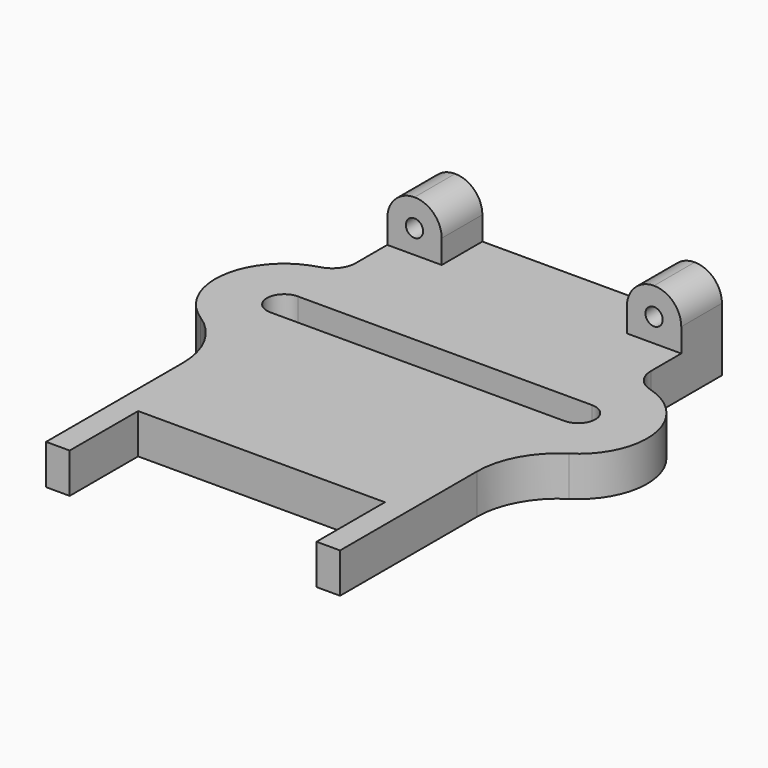
from build123d import *

# Parameters (mm, degrees)
F1_DEPTH  = 11.176
F2_W      = 15.24
F2_H      = 14.224
F3_DEPTH  = 14.224
F4_R      = 2.413
F5_DEPTH  = 14.225
F7_DEPTH  = 14.225
F9_DEPTH  = 14.225
F10_W     = 69.088
F10_H     = 23.9414346935
F11_DEPTH = 11.177


with BuildPart() as f1:
    # F0 (on Top) → F1 (new body)
    with BuildSketch(Plane.XY):
        with BuildLine():
            Line((36.576, -66.802), (41.148, -66.802))
            Line((41.148, -66.802), (41.148, -18.9191306131))
            ThreePointArc((41.148, -18.9191306131), (43.9343121331, -7.9817335086), (51.6140240964, 0.2894341771))
            ThreePointArc((51.6140240964, 0.2894341771), (60.2346282504, 19.3987779476), (46.3452307692, 35.1012132022))
            ThreePointArc((46.3452307692, 35.1012132022), (42.5943851715, 37.6516131673), (41.148, 41.9506075399))
            Line((41.148, 41.9506075399), (41.148, 66.802))
            Line((41.148, 66.802), (36.576, 66.802))
            Line((36.576, 66.802), (-36.576, 66.802))
            Line((-36.576, 66.802), (-41.148, 66.802))
            Line((-41.148, 66.802), (-41.148, 41.5621785081))
            ThreePointArc((-41.148, 41.5621785081), (-42.5208525009, 37.5313086462), (-46.068627451, 35.1763290844))
            ThreePointArc((-46.068627451, 35.1763290844), (-60.2126563181, 19.5403952666), (-51.6140240964, 0.2894341771))
            ThreePointArc((-51.6140240964, 0.2894341771), (-43.9343121331, -7.9817335086), (-41.148, -18.9191306131))
            Line((-41.148, -18.9191306131), (-41.148, -66.802))
            Line((-41.148, -66.802), (-36.576, -66.802))
            Line((-36.576, -66.802), (36.576, -66.802))
        make_face()
        with BuildLine():
            ThreePointArc((-41.148, 11.684), (-45.974, 16.51), (-41.148, 21.336))
            Line((-41.148, 21.336), (41.148, 21.336))
            ThreePointArc((41.148, 21.336), (45.974, 16.51), (41.148, 11.684))
            Line((41.148, 11.684), (-41.148, 11.684))
        make_face(mode=Mode.SUBTRACT)
    extrude(amount=F1_DEPTH)

    # F2 (on face) → F3 (join)
    with BuildSketch(Plane.XY.offset(11.176)):
        with Locations((-33.528, 59.69)):
            Rectangle(F2_W, F2_H)
        with Locations((33.528, 59.69)):
            Rectangle(F2_W, F2_H)
    extrude(amount=F3_DEPTH)

    # F4 (on face) → F5 (cut, through all)
    with BuildSketch(Plane.XZ.offset(-52.578)):
        with Locations((-33.528, 17.78)):
            Circle(F4_R)
        with Locations((33.528, 17.78)):
            Circle(F4_R)
    extrude(amount=-F5_DEPTH, mode=Mode.SUBTRACT)

    # F6 (on face) → F7 (cut, through all)
    with BuildSketch(Plane.XZ.offset(-52.578)):
        with BuildLine():
            ThreePointArc((33.528, 25.4), (38.9161536726, 23.1681536726), (41.148, 17.78))
            Line((41.148, 17.78), (41.148, 25.4))
            Line((41.148, 25.4), (33.528, 25.4))
        make_face()
        with BuildLine():
            ThreePointArc((25.908, 17.78), (28.1398463274, 23.1681536726), (33.528, 25.4))
            Line((33.528, 25.4), (25.908, 25.4))
            Line((25.908, 25.4), (25.908, 17.78))
        make_face()
    extrude(amount=-F7_DEPTH, mode=Mode.SUBTRACT)

    # F8 (on face) → F9 (cut, through all)
    with BuildSketch(Plane.XZ.offset(-52.578)):
        with BuildLine():
            ThreePointArc((-41.148, 17.78), (-38.9161536726, 23.1681536726), (-33.528, 25.4))
            Line((-33.528, 25.4), (-41.148, 25.4))
            Line((-41.148, 25.4), (-41.148, 17.78))
        make_face()
        with BuildLine():
            ThreePointArc((-33.528, 25.4), (-28.1398463274, 23.1681536726), (-25.908, 17.78))
            Line((-25.908, 17.78), (-25.908, 25.4))
            Line((-25.908, 25.4), (-33.528, 25.4))
        make_face()
    extrude(amount=-F9_DEPTH, mode=Mode.SUBTRACT)

    # F10 (on face) → F11 (cut, through all)
    with BuildSketch(Plane.XY.offset(11.176)):
        with Locations((0, -54.8312826533)):
            Rectangle(F10_W, F10_H)
    extrude(amount=-F11_DEPTH, mode=Mode.SUBTRACT)


solid = f1.part
